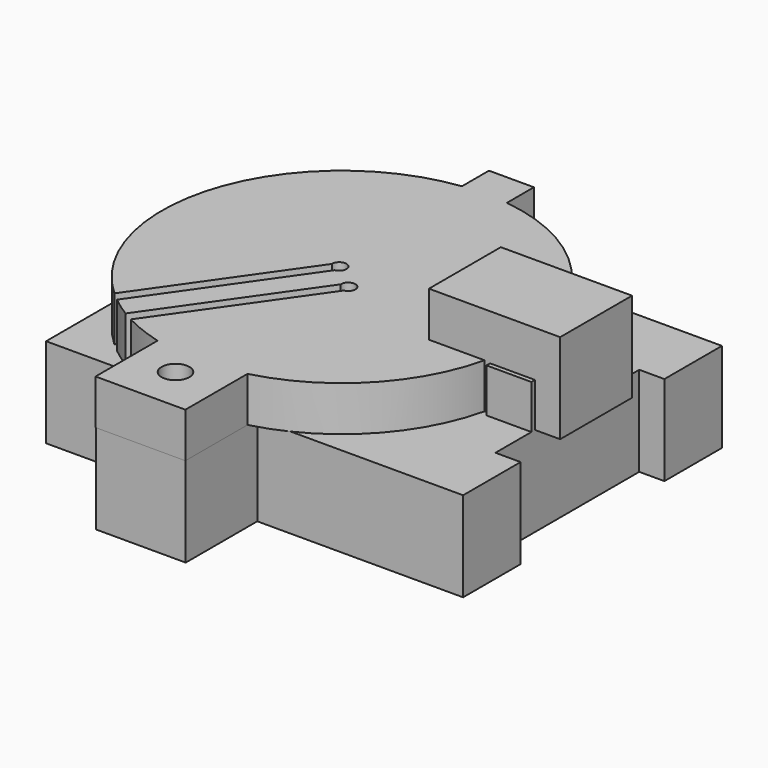
from build123d import *

# Parameters (mm, degrees)
BOX001_W               = 10
BOX001_H               = 10
BOX001_DEPTH           = 14.6
BOX004_W               = 5
BOX004_H               = 10
BOX004_DEPTH           = 5
BOX005_W               = 10
BOX005_H               = 20
BOX005_DEPTH           = 20
CYLINDER_R             = 14
CYLINDER_DEPTH         = 40
BOX_W                  = 10
BOX_H                  = 36
BOX_DEPTH              = 46.4
BOX006_W               = 5
BOX006_H               = 5
BOX006_DEPTH           = 5
CYLINDER003_R          = 1.55
CYLINDER003_DEPTH      = 50
BOX003_W               = 10
BOX003_H               = 14
BOX003_DEPTH           = 5
BOX010_W               = 1.2
BOX010_H               = 30
BOX010_DEPTH           = 10
BOX010_ROLL_ANGLE      = 90
BOX010_PLACEMENT_ANGLE = -35
BOX009_W               = 1.2
BOX009_H               = 30
BOX009_DEPTH           = 10
BOX009_ROLL_ANGLE      = 90
BOX009_PLACEMENT_ANGLE = -35
BOX008_W               = 1.2
BOX008_H               = 30
BOX008_DEPTH           = 10
BOX008_PLACEMENT_ANGLE = 325
BOX007_W               = 1.2
BOX007_H               = 30
BOX007_DEPTH           = 10
BOX007_PLACEMENT_ANGLE = 325
CYLINDER006_R          = 0.8
CYLINDER006_DEPTH      = 30
CYLINDER005_R          = 0.8
CYLINDER005_DEPTH      = 30
CYLINDER004_R          = 4
CYLINDER004_DEPTH      = 10
CYLINDER002_R          = 20
CYLINDER002_DEPTH      = 5
CYLINDER001_R          = 1.5
CYLINDER001_DEPTH      = 30
BOX002_W               = 10
BOX002_H               = 10
BOX002_DEPTH           = 10


with BuildPart() as cube001:
    # Box001 → Box001 (new body)
    with BuildSketch(Plane(origin=(12.1, -4.5, 10), x_dir=(0, 0, -1), z_dir=(1, 0, 0))):
        with Locations((5, 5)):
            Rectangle(BOX001_W, BOX001_H)
    extrude(amount=BOX001_DEPTH)


with BuildPart() as swivelstop:
    # Box004 → Box004 (new body)
    with BuildSketch(Plane(origin=(18.9, -5, -0.1), x_dir=(1, 0, 0), z_dir=(0, 0, 1))):
        with Locations((2.5, 5)):
            Rectangle(BOX004_W, BOX004_H)
    extrude(amount=BOX004_DEPTH)


with BuildPart() as footcutout:
    # Box005 → Box005 (new body)
    with BuildSketch(Plane(origin=(23.9, -10, -18), x_dir=(1, 0, 0), z_dir=(0, 0, 1))):
        with Locations((5, 10)):
            Rectangle(BOX005_W, BOX005_H)
    extrude(amount=BOX005_DEPTH)


with BuildPart() as cardboardbarrelholder:
    # Cylinder → Cylinder (new body)
    with BuildSketch(Plane(origin=(-1.1, 0, -20), x_dir=(1, 0, 0), z_dir=(0, 0, 1))):
        Circle(CYLINDER_R)
    extrude(amount=CYLINDER_DEPTH)


with BuildPart() as mainpiece1:
    # Box → Box (new body)
    with BuildSketch(Plane(origin=(-19.7, -18, 0), x_dir=(0, 0, -1), z_dir=(1, 0, 0))):
        with Locations((5, 18)):
            Rectangle(BOX_W, BOX_H)
    extrude(amount=BOX_DEPTH)

    # Cut: cut cardboardBarrelHolder
    add(cardboardbarrelholder.part, mode=Mode.SUBTRACT)

    # Cut001: cut footCutout
    add(footcutout.part, mode=Mode.SUBTRACT)


with BuildPart() as obj1:
    # Fusion002 base: copy of mainPiece1
    add(mainpiece1.part)

    # Fusion002: union swivelStop
    add(swivelstop.part)


with BuildPart() as obj2:
    # Box006 → Box006 (new body)
    with BuildSketch(Plane(origin=(-3.7, 18.6, 0), x_dir=(1, 0, 0), z_dir=(0, 0, 1))):
        with Locations((2.5, 2.5)):
            Rectangle(BOX006_W, BOX006_H)
    extrude(amount=BOX006_DEPTH)


with BuildPart() as shuttertabhole:
    # Cylinder003 → Cylinder003 (new body)
    with BuildSketch(Plane(origin=(-1.3, -23, -12), x_dir=(1, 0, 0), z_dir=(0, 0, 1))):
        Circle(CYLINDER003_R)
    extrude(amount=CYLINDER003_DEPTH)


with BuildPart() as shutterhingetab001:
    # Box003 → Box003 (new body)
    with BuildSketch(Plane(origin=(-6.2, -28, 0), x_dir=(1, 0, 0), z_dir=(0, 0, 1))):
        with Locations((5, 7)):
            Rectangle(BOX003_W, BOX003_H)
    extrude(amount=BOX003_DEPTH)

    # Cut009: cut shutterTabHole
    add(shuttertabhole.part, mode=Mode.SUBTRACT)


with BuildPart() as radialtransit4:
    # Box010 → Box010 (new body)
    with BuildSketch(Plane.XY):
        with Locations((0.6, 15)):
            Rectangle(BOX010_W, BOX010_H)
    extrude(amount=BOX010_DEPTH)


with BuildPart() as radialtransit4_1:
    # Box010 roll: moved
    add(radialtransit4.part.rotate(Axis((0, 0, 0), (1, 0, 0)), BOX010_ROLL_ANGLE))


with BuildPart() as radialtransit4_2:
    # Box010 placement: moved
    add(radialtransit4_1.part.moved(Location((-14.008889, -13.784169, -4.1))).rotate(Axis((-14.008889, -13.784169, -4.1), (0, 0, 1)), BOX010_PLACEMENT_ANGLE))


with BuildPart() as radialtransit3:
    # Box009 → Box009 (new body)
    with BuildSketch(Plane.XY):
        with Locations((0.6, 15)):
            Rectangle(BOX009_W, BOX009_H)
    extrude(amount=BOX009_DEPTH)


with BuildPart() as radialtransit3_1:
    # Box009 roll: moved
    add(radialtransit3.part.rotate(Axis((0, 0, 0), (1, 0, 0)), BOX009_ROLL_ANGLE))


with BuildPart() as radialtransit3_2:
    # Box009 placement: moved
    add(radialtransit3_1.part.moved(Location((-10.871554, -16.103032, -4.1))).rotate(Axis((-10.871554, -16.103032, -4.1), (0, 0, 1)), BOX009_PLACEMENT_ANGLE))


with BuildPart() as radialtransit2:
    # Box008 → Box008 (new body)
    with BuildSketch(Plane.XY):
        with Locations((0.6, 15)):
            Rectangle(BOX008_W, BOX008_H)
    extrude(amount=BOX008_DEPTH)


with BuildPart() as radialtransit2_1:
    # Box008 placement: moved
    add(radialtransit2.part.moved(Location((-20.375588, -22.876757, 3.8))).rotate(Axis((-20.375588, -22.876757, 3.8), (0, 0, 1)), BOX008_PLACEMENT_ANGLE))


with BuildPart() as radialtransit1:
    # Box007 → Box007 (new body)
    with BuildSketch(Plane.XY):
        with Locations((0.6, 15)):
            Rectangle(BOX007_W, BOX007_H)
    extrude(amount=BOX007_DEPTH)


with BuildPart() as radialtransit1_1:
    # Box007 placement: moved
    add(radialtransit1.part.moved(Location((-17.352968, -25.35945, 3.8))).rotate(Axis((-17.352968, -25.35945, 3.8), (0, 0, 1)), BOX007_PLACEMENT_ANGLE))


with BuildPart() as obj3:
    # Cylinder006 → Cylinder006 (new body)
    with BuildSketch(Plane(origin=(-2.6, 1.4, -18), x_dir=(1, 0, 0), z_dir=(0, 0, 1))):
        Circle(CYLINDER006_R)
    extrude(amount=CYLINDER006_DEPTH)


with BuildPart() as obj4:
    # Cylinder005 → Cylinder005 (new body)
    with BuildSketch(Plane(origin=(0.4, -1.1, -18), x_dir=(1, 0, 0), z_dir=(0, 0, 1))):
        Circle(CYLINDER005_R)
    extrude(amount=CYLINDER005_DEPTH)


with BuildPart() as obj5:
    # Cylinder004 → Cylinder004 (new body)
    with BuildSketch(Plane(origin=(-1.2, 0, -8), x_dir=(1, 0, 0), z_dir=(0, 0, 1))):
        Circle(CYLINDER004_R)
    extrude(amount=CYLINDER004_DEPTH)


with BuildPart() as shutter4:
    # Cylinder002 → Cylinder002 (new body)
    with BuildSketch(Plane(origin=(-1.2, 0, 0), x_dir=(1, 0, 0), z_dir=(0, 0, 1))):
        Circle(CYLINDER002_R)
    extrude(amount=CYLINDER002_DEPTH)

    # Cut002: cut obj5
    add(obj5.part, mode=Mode.SUBTRACT)

    # Cut003: cut obj4
    add(obj4.part, mode=Mode.SUBTRACT)

    # Cut004: cut obj3
    add(obj3.part, mode=Mode.SUBTRACT)

    # Cut005: cut radialTransit1
    add(radialtransit1_1.part, mode=Mode.SUBTRACT)

    # Cut006: cut radialTransit2
    add(radialtransit2_1.part, mode=Mode.SUBTRACT)

    # Cut007: cut radialTransit3
    add(radialtransit3_2.part, mode=Mode.SUBTRACT)

    # Cut008: cut radialTransit4
    add(radialtransit4_2.part, mode=Mode.SUBTRACT)

    # Fusion001: union shutterHingeTab001
    add(shutterhingetab001.part)

    # Fusion003: union obj2
    add(obj2.part)


with BuildPart() as hingetabhole:
    # Cylinder001 → Cylinder001 (new body)
    with BuildSketch(Plane(origin=(-1.3, -23, -12), x_dir=(1, 0, 0), z_dir=(0, 0, 1))):
        Circle(CYLINDER001_R)
    extrude(amount=CYLINDER001_DEPTH)


with BuildPart() as mainpiecehingetab:
    # Box002 → Box002 (new body)
    with BuildSketch(Plane(origin=(-6.2, -27.952, -10), x_dir=(1, 0, 0), z_dir=(0, 0, 1))):
        with Locations((5, 5)):
            Rectangle(BOX002_W, BOX002_H)
    extrude(amount=BOX002_DEPTH)

    # Cut010: cut hingeTabHole
    add(hingetabhole.part, mode=Mode.SUBTRACT)


with BuildPart() as mainpiece10:
    # Fusion base: copy of mainPiece1
    add(mainpiece1.part)

    # Fusion: union mainPieceHingeTab
    add(mainpiecehingetab.part)

    # Fusion004: union swivelStop
    add(swivelstop.part)


solid = Compound([cube001.part, obj1.part, shutter4.part, mainpiece10.part])
